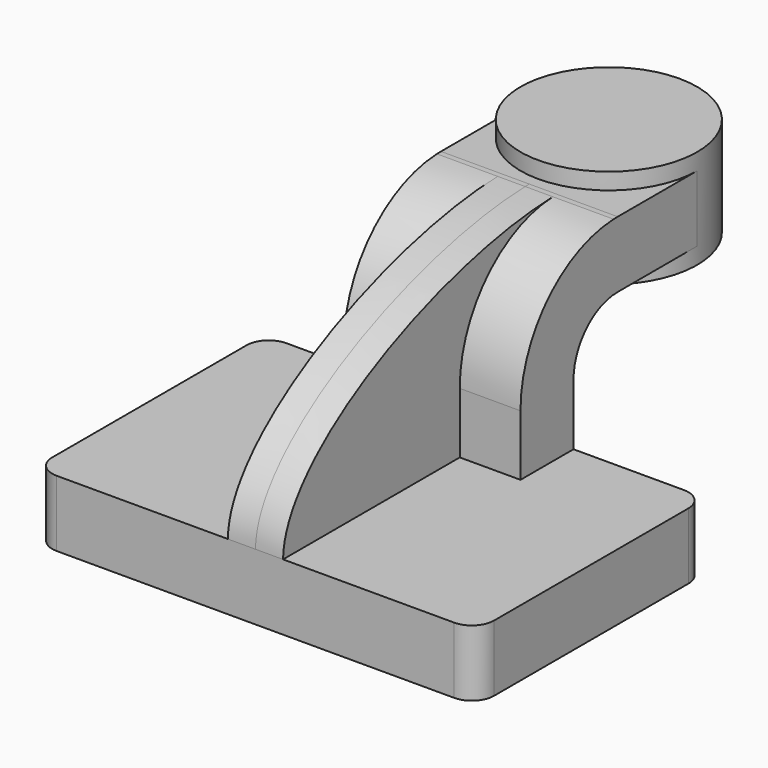
from build123d import *

# Parameters (mm, degrees)
F1_DEPTH = 63.5
F0_W     = 25.4
F0_H     = 19.05
F2_DEPTH = 25.4
F3_DEPTH = 7.9375
F5_R     = 6.35


with BuildPart() as f1:
    # F0 (on Right) → F1 (new body, symmetric)
    with BuildSketch(Plane.YZ):
        Polygon((-41.275, 9.525), (-41.275, -9.525), (41.275, -9.525), (41.275, 9.525), (22.225, 9.525), align=None)
    extrude(amount=F1_DEPTH, both=True)

    # F0 (on Right) → F2 (join, symmetric)
    with BuildSketch(Plane.YZ):
        with BuildLine():
            Line((22.225, 9.525), (41.275, 9.525))
            Line((41.275, 9.525), (41.275, 27.0002))
            ThreePointArc((41.275, 27.0002), (45.9246798487, 38.2255201513), (57.15, 42.8752))
            Line((57.15, 42.8752), (60.325, 42.8752))
            Line((60.325, 42.8752), (60.325, 61.9252))
            Line((60.325, 61.9252), (57.15, 61.9252))
            add(Edge.make_bspline(
                [(55.6725300952, 61.8939345046), (56.1670957389, 61.9078019398), (56.659625513, 61.9182367743), (57.15, 61.9252)],
                knots=[110.1817471717, 110.1817471717, 110.1817471717, 110.1817471717, 111.5045361635, 111.5045361635, 111.5045361635, 111.5045361635], degree=3))
            ThreePointArc((55.6725300952, 61.8939345046), (31.9373418555, 51.1678952622), (22.225, 27.0002))
            Line((22.225, 27.0002), (22.225, 9.525))
        make_face()
        with Locations((73.025, 52.4002)):
            Rectangle(F0_W, F0_H)
    extrude(amount=F2_DEPTH, both=True)

    # F0 (on Right) → F3 (join, symmetric)
    with BuildSketch(Plane.YZ):
        with BuildLine():
            add(Edge.make_bspline(
                [(-41.275, 9.525), (-40.8421786734, 35.7681623922), (14.4776705555, 60.7388460936), (55.6725300952, 61.8939345046)],
                knots=[0, 0, 0, 0, 110.1817471717, 110.1817471717, 110.1817471717, 110.1817471717], degree=3))
            Line((-41.275, 9.525), (22.225, 9.525))
            Line((22.225, 9.525), (22.225, 27.0002))
            ThreePointArc((22.225, 27.0002), (31.9373418555, 51.1678952622), (55.6725300952, 61.8939345046))
        make_face()
    extrude(amount=F3_DEPTH, both=True)

    # F0 (on Right) → F4 (revolve)
    with BuildSketch(Plane.YZ):
        Polygon((85.725, 66.675), (85.725, 61.9252), (85.725, 42.8752), (85.725, 38.1), (111.125, 38.1), (111.125, 66.675), align=None)
    revolve(axis=Axis((0, 85.725, 52.3875), (0, 0, 1)))

    # F5
    f5_edges = [f1.edges().sort_by_distance(p)[0] for p in [
        (63.5, 41.275, 0),
        (63.5, -41.275, 0),
        (-63.5, 41.275, 0),
        (-63.5, -41.275, 0),
    ]]
    fillet(f5_edges, radius=F5_R)


solid = f1.part
